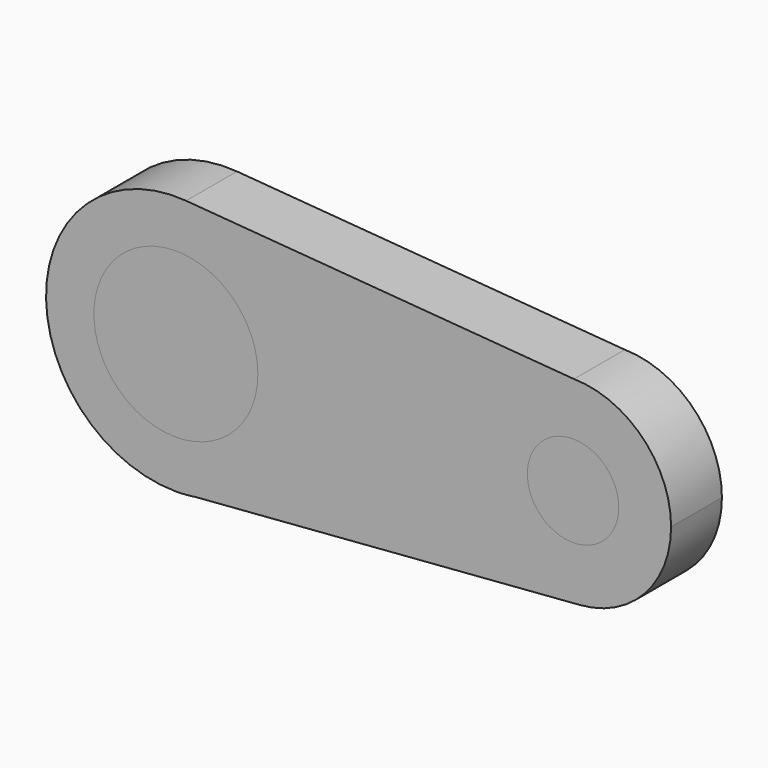
from build123d import *

# Parameters (mm, degrees)
F2_DEPTH = 25
F1_R     = 17.9667597456
F1_R_2   = 32.2542560874


with BuildPart() as f2:
    # F0 (on Front) → F2 (new body)
    with BuildSketch(Plane.XZ):
        with BuildLine():
            ThreePointArc((194.7961708678, 0), (183.6489144795, 27.2202641338), (156.6110578322, 38.8029413899))
            ThreePointArc((156.6110578322, 38.8029413899), (117.1987235928, -1.1959369263), (159.0003047866, -38.690872137))
            ThreePointArc((159.0003047866, -38.690872137), (184.474618745, -26.3549218137), (194.7961708678, 0))
        make_face()
        with BuildLine():
            ThreePointArc((7.9035147854, -50.4537146304), (38.8050735772, -33.1995350967), (51.0690010277, 0))
            ThreePointArc((51.0690010277, 0), (37.5122251762, 34.6536553382), (4.0394604403, 50.9089935603))
            ThreePointArc((4.0394604403, 50.9089935603), (-51.028983482, 2.021314117), (0, -51.0690010277))
            Line((0, -51.0690010277), (7.9035147854, -50.4537146304))
        make_face()
        with BuildLine():
            ThreePointArc((4.0394604403, 50.9089935603), (37.5122251762, 34.6536553382), (51.0690010277, 0))
            ThreePointArc((51.0690010277, 0), (38.8050735772, -33.1995350967), (7.9035147854, -50.4537146304))
            Line((7.9035147854, -50.4537146304), (159.0003047866, -38.690872137))
            ThreePointArc((159.0003047866, -38.690872137), (117.1987235928, -1.1959369263), (156.6110578322, 38.8029413899))
            Line((156.6110578322, 38.8029413899), (4.0394604403, 50.9089935603))
        make_face()
        with BuildLine():
            ThreePointArc((0, -51.0690010277), (3.9637142718, -50.91494707), (7.9035147854, -50.4537146304))
            Line((7.9035147854, -50.4537146304), (0, -51.0690010277))
        make_face()
        with BuildLine():
            ThreePointArc((194.7961708678, 0), (183.6489144795, 27.2202641338), (156.6110578322, 38.8029413899))
            ThreePointArc((156.6110578322, 38.8029413899), (117.1987235928, -1.1959369263), (159.0003047866, -38.690872137))
            ThreePointArc((159.0003047866, -38.690872137), (184.474618745, -26.3549218137), (194.7961708678, 0))
        make_face()
        with BuildLine():
            ThreePointArc((4.0394604403, 50.9089935603), (37.5122251762, 34.6536553382), (51.0690010277, 0))
            ThreePointArc((51.0690010277, 0), (38.8050735772, -33.1995350967), (7.9035147854, -50.4537146304))
            Line((7.9035147854, -50.4537146304), (159.0003047866, -38.690872137))
            ThreePointArc((159.0003047866, -38.690872137), (117.1987235928, -1.1959369263), (156.6110578322, 38.8029413899))
            Line((156.6110578322, 38.8029413899), (4.0394604403, 50.9089935603))
        make_face()
        with BuildLine():
            ThreePointArc((7.9035147854, -50.4537146304), (38.8050735772, -33.1995350967), (51.0690010277, 0))
            ThreePointArc((51.0690010277, 0), (37.5122251762, 34.6536553382), (4.0394604403, 50.9089935603))
            ThreePointArc((4.0394604403, 50.9089935603), (-51.028983482, 2.021314117), (0, -51.0690010277))
            Line((0, -51.0690010277), (7.9035147854, -50.4537146304))
        make_face()
    extrude(amount=F2_DEPTH)


with BuildPart() as f2b:
    # F1 (on Front) → F2, piece 2 (new body)
    with BuildSketch(Plane.XZ):
        with Locations((156.2296152115, 0)):
            Circle(F1_R)
    extrude(amount=F2_DEPTH)


with BuildPart() as f2c:
    # F1 (on Front) → F2, piece 3 (new body)
    with BuildSketch(Plane.XZ):
        Circle(F1_R_2)
    extrude(amount=F2_DEPTH)


solid = Compound([f2.part, f2b.part, f2c.part])
